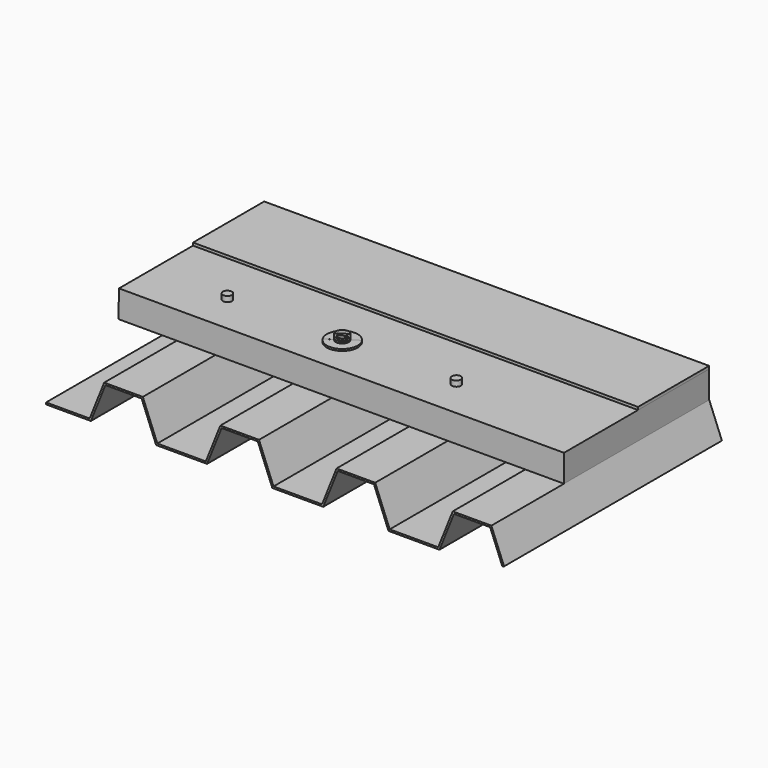
from build123d import *

# Parameters (mm, degrees)
F1_DEPTH  = 150
F2_DEPTH  = 100
F3_DEPTH  = 49
F4_R      = 2.5
F5_DEPTH  = 3
F6_DEPTH  = 3
F7_DEPTH  = 3
F8_DEPTH  = 4
F9_DEPTH  = 4
F10_DEPTH = 2
F11_DEPTH = 1
F12_DEPTH = 1


with BuildPart() as f1:
    # F0 (on Front) → F1 (new body)
    with BuildSketch(Plane.XZ):
        Polygon((-51.054478, -4), (-75.054478, -4), (-75.054478, -5), (-50.377445, -5), (-42.377445, 15), (-22.439643, 15), (-14.439643, -5), (13.622555, -5), (21.622555, 15), (41.560357, 15), (49.560357, -5), (77.622555, -5), (85.622555, 15), (105.560357, 15), (113.560357, -5), (141.622555, -5), (149.622555, 15), (169.560357, 15), (176.303139, -1.856953), (177.231616, -1.485563), (170.23739, 16), (148.945522, 16), (140.945522, -4), (114.23739, -4), (106.23739, 16), (84.945522, 16), (76.945522, -4), (50.23739, -4), (42.23739, 16), (20.945522, 16), (12.945522, -4), (-13.76261, -4), (-21.76261, 16), (-43.054478, 16), align=None)
    extrude(amount=F1_DEPTH)


with BuildPart() as f2:
    # F0 (on Front) → F2 (new body)
    with BuildSketch(Plane.XZ):
        Polygon((-75.163431, 16), (-43.054478, 16), (-21.76261, 16), (20.945522, 16), (42.23739, 16), (84.945522, 16), (106.23739, 16), (148.945522, 16), (170.23739, 16), (170.23739, 31), (-74.911438, 31), align=None)
    extrude(amount=F2_DEPTH)


with BuildPart() as f3:
    # F0 (on Front) → F3 (new body)
    with BuildSketch(Plane.XZ):
        Polygon((-74.911438, 32.499531), (-74.911438, 31), (170.23739, 31), (170.199873, 32.499531), align=None)
    extrude(amount=F3_DEPTH)


with BuildPart() as f5:
    # F4 (on face) → F5 (new body)
    with BuildSketch(Plane.XY.offset(31)):
        with Locations((94.12609, -78.925343)):
            Circle(F4_R)
    extrude(amount=F5_DEPTH)


with BuildPart() as f6:
    # F4 (on face) → F6 (new body)
    with BuildSketch(Plane.XY.offset(31)):
        with Locations((-32.009708, -78.925343)):
            Circle(F4_R)
    extrude(amount=F6_DEPTH)


with BuildPart() as f7:
    # F4 (on face) → F7 (new body)
    with BuildSketch(Plane.XY.offset(31)):
        with BuildLine():
            ThreePointArc((29.16524, -80.318087), (31.969267, -81.317026), (33.741357, -78.925343))
            ThreePointArc((33.741357, -78.925343), (33.620999, -78.158986), (33.271515, -77.466419))
            Line((33.271515, -77.466419), (31.241357, -78.925343))
            Line((31.241357, -78.925343), (29.16524, -80.318087))
        make_face()
    extrude(amount=F7_DEPTH)


with BuildPart() as f8:
    # F4 (on face) → F8 (new body)
    with BuildSketch(Plane.XY.offset(31)):
        with BuildLine():
            Line((31.241357, -78.925343), (33.271515, -77.466419))
            ThreePointArc((33.271515, -77.466419), (29.838999, -76.855707), (29.133819, -80.270068))
            Line((29.133819, -80.270068), (31.241357, -78.925343))
        make_face()
    extrude(amount=F8_DEPTH)


with BuildPart() as f9:
    # F4 (on face) → F9 (new body)
    with BuildSketch(Plane.XY.offset(31)):
        with BuildLine():
            ThreePointArc((29.133819, -80.270068), (29.838999, -76.855707), (33.271515, -77.466419))
            Line((33.271515, -77.466419), (34.064402, -76.856425))
            ThreePointArc((34.064402, -76.856425), (29.264563, -76.037042), (28.290804, -80.807958))
            Line((28.290804, -80.807958), (29.133819, -80.270068))
        make_face()
    extrude(amount=F9_DEPTH)


with BuildPart() as f10:
    # F4 (on face) → F10 (new body)
    with BuildSketch(Plane.XY.offset(31)):
        with BuildLine():
            ThreePointArc((33.271515, -77.466419), (33.620999, -78.158986), (33.741357, -78.925343))
            ThreePointArc((33.741357, -78.925343), (31.969267, -81.317026), (29.16524, -80.318087))
            Line((29.16524, -80.318087), (28.349255, -80.896573))
            ThreePointArc((28.349255, -80.896573), (32.272775, -82.269917), (34.741357, -78.925343))
            ThreePointArc((34.741357, -78.925343), (34.567816, -77.836916), (34.064402, -76.856425))
            Line((34.064402, -76.856425), (33.271515, -77.466419))
        make_face()
    extrude(amount=F10_DEPTH)


with BuildPart() as f11:
    # F4 (on face) → F11 (new body)
    with BuildSketch(Plane.XY.offset(31)):
        with BuildLine():
            ThreePointArc((28.290804, -80.807958), (29.264563, -76.037042), (34.064402, -76.856425))
            Line((34.064402, -76.856425), (38.141315, -73.961415))
            ThreePointArc((38.141315, -73.961415), (26.471511, -71.889821), (24.075729, -83.497407))
            Line((24.075729, -83.497407), (28.290804, -80.807958))
        make_face()
    extrude(amount=F11_DEPTH)


with BuildPart() as f12:
    # F4 (on face) → F12 (new body)
    with BuildSketch(Plane.XY.offset(31)):
        with BuildLine():
            Line((38.141315, -73.961415), (34.064402, -76.856425))
            ThreePointArc((34.064402, -76.856425), (34.567816, -77.836916), (34.741357, -78.925343))
            ThreePointArc((34.741357, -78.925343), (32.272775, -82.269917), (28.349255, -80.896573))
            Line((28.349255, -80.896573), (24.075729, -83.497407))
            ThreePointArc((24.075729, -83.497407), (33.62276, -87.084933), (39.741357, -78.925343))
            ThreePointArc((39.741357, -78.925343), (39.331464, -76.317628), (38.141315, -73.961415))
        make_face()
    extrude(amount=F12_DEPTH)


solid = Compound([f1.part, f2.part, f3.part, f5.part, f6.part, f7.part, f8.part, f9.part, f10.part, f11.part, f12.part])
